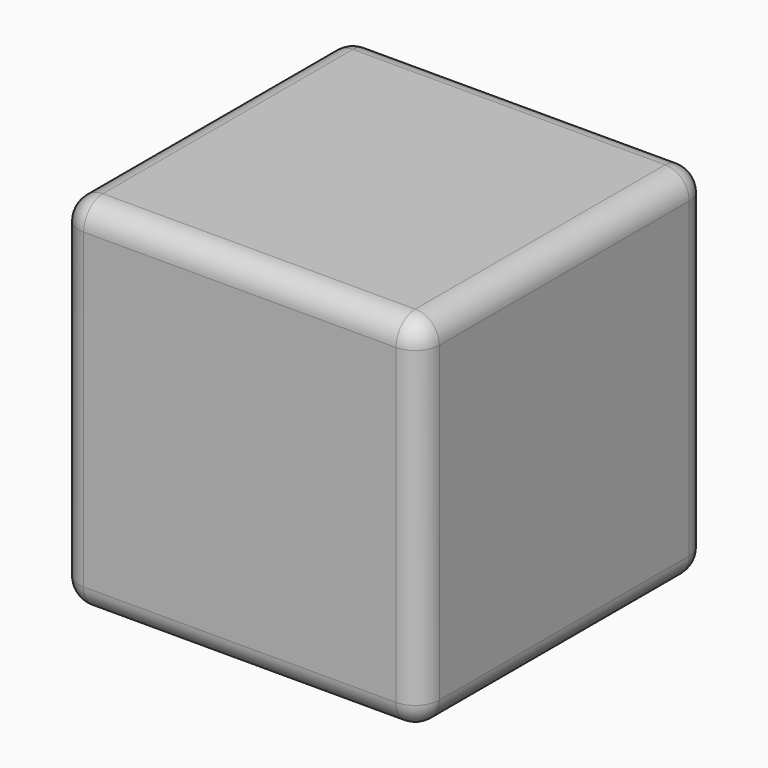
from build123d import *

# Parameters (mm, degrees)
F0_W     = 30
F0_H     = 30
F1_DEPTH = 15
F2_R     = 2
F4_R     = 1.75


with BuildPart() as f1:
    # F0 (on Top) → F1 (new body, symmetric)
    with BuildSketch(Plane.XY):
        Rectangle(F0_W, F0_H)
    extrude(amount=F1_DEPTH, both=True)

    # F2
    f2_edges = [f1.edges().sort_by_distance(p)[0] for p in [
        (15, 0, 15),
        (0, 15, 15),
        (-15, 0, 15),
        (0, -15, 15),
        (0, -15, -15),
        (15, -15, 0),
        (-15, -15, 0),
        (15, 0, -15),
        (15, 15, 0),
        (0, 15, -15),
        (-15, 15, 0),
        (-15, 0, -15),
    ]]
    fillet(f2_edges, radius=F2_R)

    # F5: sweep along a path in F3
    with BuildLine(Plane.XY) as f5_path:
        CenterArc((0, 19), 7, 0, 360)
    # F4 (on face) → F5 (sweep)
    with BuildSketch(Plane(origin=(0, 15, 0), x_dir=(-1, 0, 0), z_dir=(0, 1, 0))):
        with Locations((5.6, 0)):
            Circle(F4_R)
    sweep(path=f5_path.line)


solid = f1.part
